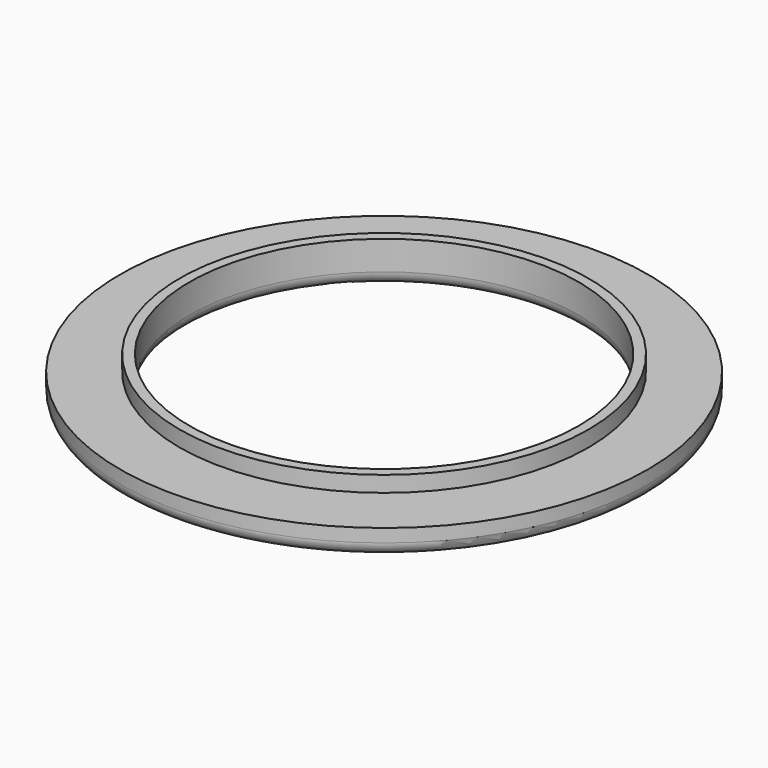
from build123d import *

# Parameters (mm, degrees)
F0_R     = 20
F0_R_2   = 15.5
F1_DEPTH = 2
F2_R     = 15.5
F2_R_2   = 14.75
F3_DEPTH = 3.2
F4_R     = 1


with BuildPart() as f1:
    # F0 (on Top) → F1 (new body)
    with BuildSketch(Plane.XY):
        Circle(F0_R)
        Circle(F0_R_2, mode=Mode.SUBTRACT)
    extrude(amount=F1_DEPTH)

    # F2 (on Top) → F3 (join)
    with BuildSketch(Plane.XY):
        Circle(F2_R)
        Circle(F2_R_2, mode=Mode.SUBTRACT)
    extrude(amount=F3_DEPTH)

    # F4
    f4_edges = [f1.edges().sort_by_distance(p)[0] for p in [
        (-20, 0, 0),
        (-14.75, 0, 0),
    ]]
    fillet(f4_edges, radius=F4_R)


solid = f1.part
